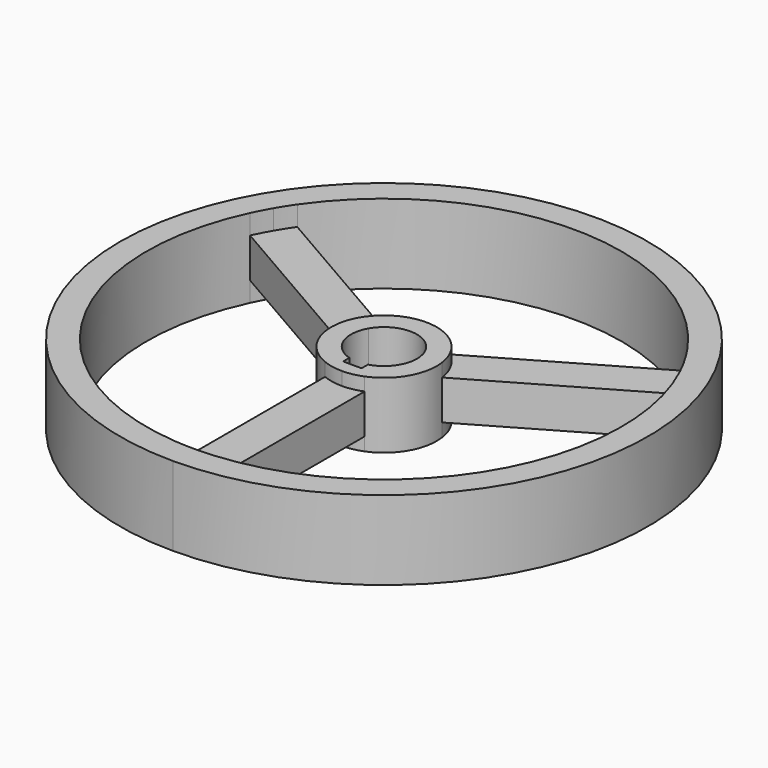
from build123d import *

# Parameters (mm, degrees)
F1_DEPTH = 9.525
F2_DEPTH = 19.05
F3_DEPTH = 15.875


with BuildPart() as f1:
    # F0 (on Top) → F1 (new body, symmetric)
    with BuildSketch(Plane.XY):
        with BuildLine():
            ThreePointArc((-93.879901, 65.200109), (-96.517267, 61.22832), (-98.986704, 57.15))
            ThreePointArc((-98.986704, 57.15), (-101.283914, 52.972245), (-103.404901, 48.702325))
            Line((-103.404901, 48.702325), (-25.154307, 3.524323))
            ThreePointArc((-25.154307, 3.524323), (-24.017926, 8.264335), (-21.997045, 12.7))
            ThreePointArc((-21.997045, 12.7), (-19.166087, 16.667966), (-15.629307, 20.022107))
            Line((-15.629307, 20.022107), (-93.879901, 65.200109))
        make_face()
        with BuildLine():
            Line((-9.525, -23.54643), (-9.525, -113.902434))
            ThreePointArc((-9.525, -113.902434), (-4.766647, -114.200565), (0, -114.3))
            ThreePointArc((0, -114.3), (4.766647, -114.200565), (9.525, -113.902434))
            Line((9.525, -113.902434), (9.525, -23.54643))
            ThreePointArc((9.525, -23.54643), (4.851838, -24.932302), (0, -25.4))
            ThreePointArc((0, -25.4), (-4.851838, -24.932302), (-9.525, -23.54643))
        make_face()
        with BuildLine():
            ThreePointArc((103.404901, 48.702325), (98.986704, 57.15), (93.879901, 65.200109))
            Line((93.879901, 65.200109), (15.629307, 20.022107))
            ThreePointArc((15.629307, 20.022107), (21.997045, 12.7), (25.154307, 3.524323))
            Line((25.154307, 3.524323), (103.404901, 48.702325))
        make_face()
    extrude(amount=F1_DEPTH, both=True)

    # F0 (on Top) → F2 (join, symmetric)
    with BuildSketch(Plane.XY):
        with BuildLine():
            ThreePointArc((0, -127), (109.985226, 63.5), (-109.985226, 63.5))
            ThreePointArc((-109.985226, 63.5), (-109.985226, -63.5), (0, -127))
        make_face()
        with BuildLine():
            ThreePointArc((-103.404901, 48.702325), (-101.283914, 52.972245), (-98.986704, 57.15))
            ThreePointArc((-98.986704, 57.15), (-96.517267, 61.22832), (-93.879901, 65.200109))
            ThreePointArc((-93.879901, 65.200109), (0, 114.3), (93.879901, 65.200109))
            ThreePointArc((93.879901, 65.200109), (98.986704, 57.15), (103.404901, 48.702325))
            ThreePointArc((103.404901, 48.702325), (98.986704, -57.15), (9.525, -113.902434))
            ThreePointArc((9.525, -113.902434), (4.766647, -114.200565), (0, -114.3))
            ThreePointArc((0, -114.3), (-4.766647, -114.200565), (-9.525, -113.902434))
            ThreePointArc((-9.525, -113.902434), (-98.986704, -57.15), (-103.404901, 48.702325))
        make_face(mode=Mode.SUBTRACT)
    extrude(amount=F2_DEPTH, both=True)

    # F0 (on Top) → F3 (join, symmetric)
    with BuildSketch(Plane.XY):
        with BuildLine():
            ThreePointArc((-21.997045, 12.7), (-24.017926, 8.264335), (-25.154307, 3.524323))
            ThreePointArc((-25.154307, 3.524323), (-21.997045, -12.7), (-9.525, -23.54643))
            ThreePointArc((-9.525, -23.54643), (-4.851838, -24.932302), (0, -25.4))
            ThreePointArc((0, -25.4), (4.851838, -24.932302), (9.525, -23.54643))
            ThreePointArc((9.525, -23.54643), (21.997045, -12.7), (25.154307, 3.524323))
            ThreePointArc((25.154307, 3.524323), (21.997045, 12.7), (15.629307, 20.022107))
            ThreePointArc((15.629307, 20.022107), (0, 25.4), (-15.629307, 20.022107))
            ThreePointArc((-15.629307, 20.022107), (-19.166087, 16.667966), (-21.997045, 12.7))
        make_face()
        with BuildLine():
            ThreePointArc((-4.445, -15.24), (-14.732509, -5.913442), (-13.748153, 7.9375))
            ThreePointArc((-13.748153, 7.9375), (12.487445, 9.802007), (4.445, -15.24))
            Line((4.445, -15.24), (4.445, -19.05))
            Line((4.445, -19.05), (-4.445, -19.05))
            Line((-4.445, -19.05), (-4.445, -15.24))
        make_face(mode=Mode.SUBTRACT)
    extrude(amount=F3_DEPTH, both=True)


solid = f1.part
